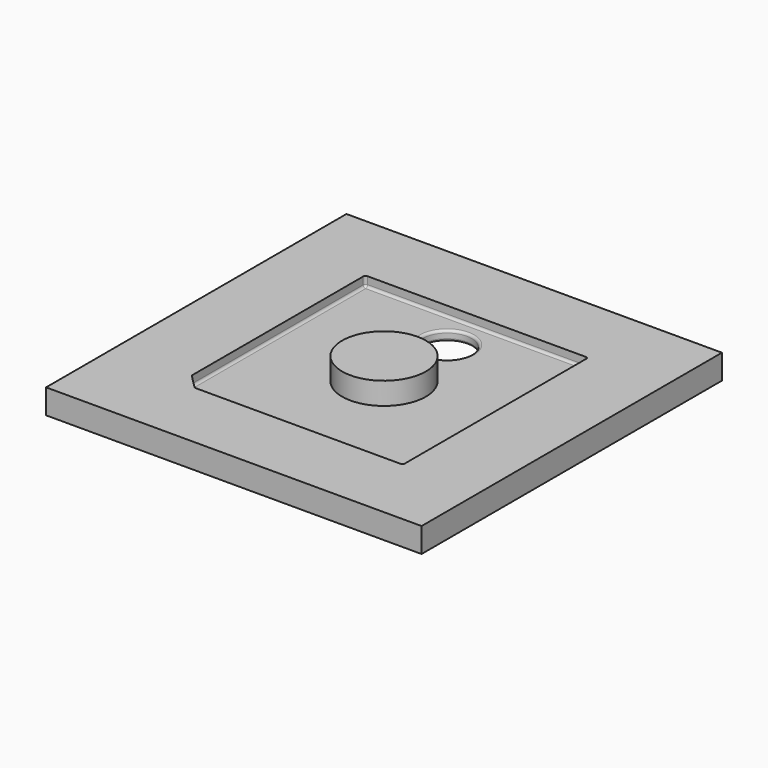
from build123d import *

# Parameters (mm, degrees)
BOX001_W          = 90.5
BOX001_H          = 94
BOX001_DEPTH      = 8
CHAMFER_SIZE      = 6
FILLET_R          = 1
FILLET001_R       = 0.5
FILLET002_R       = 1
BOX002_W          = 134
BOX002_H          = 134
BOX002_DEPTH      = 4
CHAMFER001_SIZE   = 0.5
FILLET003_R       = 0.5
FILLET004_R       = 0.5
FILLET005_R       = 0.5
FILLET006_R       = 0.5
BOX003_W          = 146
BOX003_H          = 99
BOX003_DEPTH      = 4
CYLINDER_R        = 10
CYLINDER_DEPTH    = 20
BOX_W             = 152.4
BOX_H             = 152.4
BOX_DEPTH         = 10
FILLET007_R       = 1
CYLINDER001_R     = 17
CYLINDER001_DEPTH = 20


with BuildPart() as body:
    # Box001 → Box001 (join)
    with BuildSketch(Plane(origin=(-45.25, -47, 6), x_dir=(1, 0, 0), z_dir=(0, 0, 1))):
        with Locations((45.25, 47)):
            Rectangle(BOX001_W, BOX001_H)
    extrude(amount=BOX001_DEPTH)

    # Chamfer
    chamfer_edges = [body.edges().sort_by_distance(p)[0] for p in [
        (-45.25, -47, 10),
    ]]
    chamfer(chamfer_edges, length=CHAMFER_SIZE)

    # Fillet
    fillet_edges = [body.edges().sort_by_distance(p)[0] for p in [
        (45.25, 47, 10),
        (-45.25, 47, 10),
        (45.25, -47, 10),
    ]]
    fillet(fillet_edges, radius=FILLET_R)

    # Fillet001
    fillet001_edges = [body.edges().sort_by_distance(p)[0] for p in [
        (-45.25, -41, 10),
        (-39.25, -47, 10),
    ]]
    fillet(fillet001_edges, radius=FILLET001_R)

    # Fillet002
    fillet002_edges = [body.edges().sort_by_distance(p)[0] for p in [
        (-45.25, 2.603553, 6),
        (-45.21194, -40.984235, 6),
        (-42.25, -44, 6),
        (2.603553, -47, 6),
        (-39.234235, -46.96194, 6),
        (44.957107, -46.707107, 6),
        (45.25, 0, 6),
        (44.957107, 46.707107, 6),
        (0, 47, 6),
        (-44.957107, 46.707107, 6),
    ]]
    fillet(fillet002_edges, radius=FILLET002_R)


with BuildPart() as body002:
    # Box002 → Box002 (join)
    with BuildSketch(Plane(origin=(-67, -67, -2), x_dir=(1, 0, 0), z_dir=(0, 0, 1))):
        with Locations((67, 67)):
            Rectangle(BOX002_W, BOX002_H)
    extrude(amount=BOX002_DEPTH)

    # Chamfer001
    chamfer001_edges = [body002.edges().sort_by_distance(p)[0] for p in [
        (-67, -67, 0),
        (-67, 67, 0),
        (67, 67, 0),
        (67, -67, 0),
    ]]
    chamfer(chamfer001_edges, length=CHAMFER001_SIZE)

    # Fillet003
    fillet003_edges = [body002.edges().sort_by_distance(p)[0] for p in [
        (-66.5, -67, 0),
        (-67, -66.5, 0),
    ]]
    fillet(fillet003_edges, radius=FILLET003_R)

    # Fillet004
    fillet004_edges = [body002.edges().sort_by_distance(p)[0] for p in [
        (67, -66.5, 0),
        (66.5, -67, 0),
    ]]
    fillet(fillet004_edges, radius=FILLET004_R)

    # Fillet005
    fillet005_edges = [body002.edges().sort_by_distance(p)[0] for p in [
        (67, 66.5, 0),
        (66.5, 67, 0),
    ]]
    fillet(fillet005_edges, radius=FILLET005_R)

    # Fillet006
    fillet006_edges = [body002.edges().sort_by_distance(p)[0] for p in [
        (-67, 66.5, 0),
        (-66.5, 67, 0),
    ]]
    fillet(fillet006_edges, radius=FILLET006_R)


with BuildPart() as body003:
    # Box003 → Box003 (join)
    with BuildSketch(Plane(origin=(-73, -69, -2), x_dir=(1, 0, 0), z_dir=(0, 0, 1))):
        with Locations((73, 49.5)):
            Rectangle(BOX003_W, BOX003_H)
    extrude(amount=BOX003_DEPTH)


with BuildPart() as body004:
    # Cylinder → Cylinder (join)
    with BuildSketch(Plane(origin=(0, 32, -5), x_dir=(1, 0, 0), z_dir=(0, 0, 1))):
        Circle(CYLINDER_R)
    extrude(amount=CYLINDER_DEPTH)


with BuildPart() as base:
    # Box → Box (join)
    with BuildSketch(Plane(origin=(-76.2, -76.2, 0), x_dir=(1, 0, 0), z_dir=(0, 0, 1))):
        with Locations((76.2, 76.2)):
            Rectangle(BOX_W, BOX_H)
    extrude(amount=BOX_DEPTH)

    # Boolean: cut Body
    add(body.part, mode=Mode.SUBTRACT)

    # Boolean001: cut Body002, Body003, Body004
    add(body002.part, mode=Mode.SUBTRACT)
    add(body003.part, mode=Mode.SUBTRACT)
    add(body004.part, mode=Mode.SUBTRACT)

    # Fillet007
    fillet007_edges = [base.edges().sort_by_distance(p)[0] for p in [
        (-1.00509, 41.949362, 2),
        (0, 22, 2),
        (9.949362, 30.99491, 2),
        (10, 32, 4),
        (-10, 32, 6),
    ]]
    fillet(fillet007_edges, radius=FILLET007_R)


with BuildPart() as body005:
    # Cylinder001 → Cylinder001 (join)
    with BuildSketch(Plane.XY.offset(-5)):
        Circle(CYLINDER001_R)
    extrude(amount=CYLINDER001_DEPTH)


solid = Compound([base.part, body005.part])
